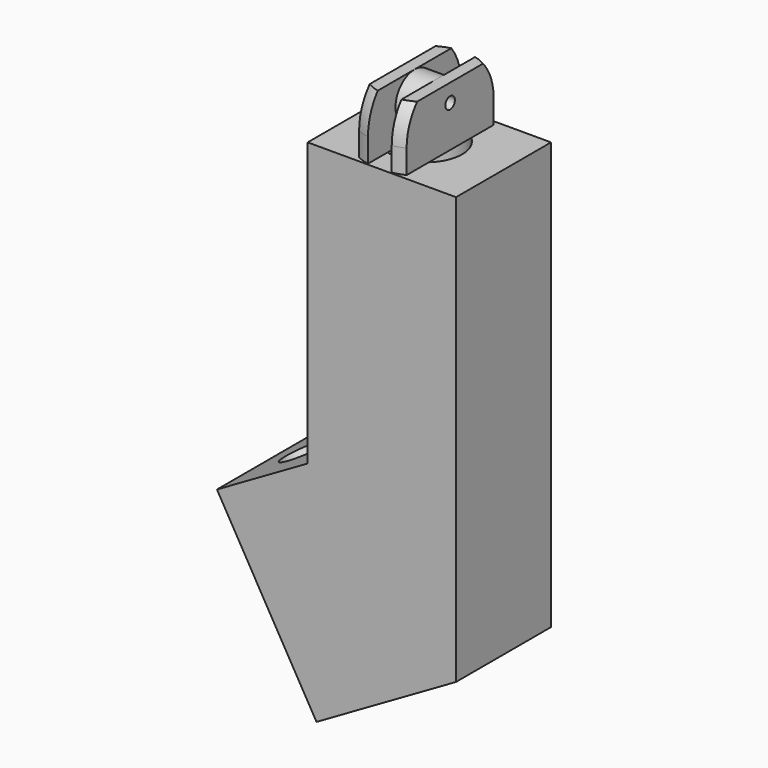
from build123d import *

# Parameters (mm, degrees)
BOX139_W                    = 15
BOX139_H                    = 21
BOX139_DEPTH                = 23
BOX139_PLACEMENT_ANGLE      = 60
CYLINDER260_R               = 2
CYLINDER260_DEPTH           = 46
CYLINDER260_PLACEMENT_ANGLE = 330
CYLINDER227_R               = 2
CYLINDER227_DEPTH           = 10
CYLINDER227_PLACEMENT_ANGLE = 45
CYLINDER224_R               = 3
CYLINDER224_DEPTH           = 37
CYLINDER222_R               = 0.5
CYLINDER222_DEPTH           = 10
CYLINDER219_R               = 2
CYLINDER219_DEPTH           = 4
CYLINDER223_R               = 3
CYLINDER223_DEPTH           = 10
BOX110_W                    = 10
BOX110_H                    = 10
BOX110_DEPTH                = 10
BOX108_W                    = 2
BOX108_H                    = 10
BOX108_DEPTH                = 10
BOX109_W                    = 10
BOX109_H                    = 10
BOX109_DEPTH                = 10
CYLINDER221_R               = 5
CYLINDER221_DEPTH           = 10
CYLINDER220_R               = 5
CYLINDER220_DEPTH           = 10
BOX101_W                    = 10
BOX101_H                    = 10
BOX101_DEPTH                = 20
BOX101_PLACEMENT_ANGLE      = 330
BOX100_W                    = 12
BOX100_H                    = 10
BOX100_DEPTH                = 17
BOX100_PLACEMENT_ANGLE      = 30
BOX098_W                    = 12.5
BOX098_H                    = 10
BOX098_DEPTH                = 43


with BuildPart() as cube139:
    # Box139 → Box139 (new body)
    with BuildSketch(Plane.XY):
        with Locations((7.5, 10.5)):
            Rectangle(BOX139_W, BOX139_H)
    extrude(amount=BOX139_DEPTH)


with BuildPart() as cube139_1:
    # Box139 placement: moved
    add(cube139.part.moved(Location((-59.2, -11, -91.360962))).rotate(Axis((-59.2, -11, -91.360962), (0, 1, 0)), BOX139_PLACEMENT_ANGLE))


with BuildPart() as cylinder260:
    # Cylinder260 → Cylinder260 (new body)
    with BuildSketch(Plane.XY):
        Circle(CYLINDER260_R)
    extrude(amount=CYLINDER260_DEPTH)


with BuildPart() as cylinder260_1:
    # Cylinder260 placement: moved
    add(cylinder260.part.moved(Location((-50.83, 0, -93.18))).rotate(Axis((-50.83, 0, -93.18), (0, 1, 0)), CYLINDER260_PLACEMENT_ANGLE))


with BuildPart() as cylinder227:
    # Cylinder227 → Cylinder227 (new body)
    with BuildSketch(Plane.XY):
        Circle(CYLINDER227_R)
    extrude(amount=CYLINDER227_DEPTH)


with BuildPart() as cylinder227_1:
    # Cylinder227 placement: moved
    add(cylinder227.part.moved(Location((-62.041631, 0, -84.020815))).rotate(Axis((-62.041631, 0, -84.020815), (0, 1, 0)), CYLINDER227_PLACEMENT_ANGLE))


with BuildPart() as cylinder224:
    # Cylinder224 → Cylinder224 (new body)
    with BuildSketch(Plane(origin=(-52, 0, -84.5), x_dir=(1, 0, 0), z_dir=(0, 0, 1))):
        Circle(CYLINDER224_R)
    extrude(amount=CYLINDER224_DEPTH)


with BuildPart() as cylinder222:
    # Cylinder222 → Cylinder222 (new body)
    with BuildSketch(Plane(origin=(-5, 0, -7), x_dir=(0, 0, -1), z_dir=(1, 0, 0))):
        Circle(CYLINDER222_R)
    extrude(amount=CYLINDER222_DEPTH)


with BuildPart() as cylinder219:
    # Cylinder219 → Cylinder219 (new body)
    with BuildSketch(Plane(origin=(-2, -50, 1), x_dir=(0, 0, -1), z_dir=(1, 0, 0))):
        Circle(CYLINDER219_R)
    extrude(amount=CYLINDER219_DEPTH)


with BuildPart() as cylinder223:
    # Cylinder223 → Cylinder223 (new body)
    with BuildSketch(Plane(origin=(0, -50, -12), x_dir=(1, 0, 0), z_dir=(0, 0, 1))):
        Circle(CYLINDER223_R)
    extrude(amount=CYLINDER223_DEPTH)


with BuildPart() as cube110:
    # Box110 → Box110 (new body)
    with BuildSketch(Plane(origin=(-12, -55, -2), x_dir=(1, 0, 0), z_dir=(0, 0, 1))):
        with Locations((5, 5)):
            Rectangle(BOX110_W, BOX110_H)
    extrude(amount=BOX110_DEPTH)


with BuildPart() as cube108:
    # Box108 → Box108 (new body)
    with BuildSketch(Plane(origin=(-1, -55, -2), x_dir=(1, 0, 0), z_dir=(0, 0, 1))):
        with Locations((1, 5)):
            Rectangle(BOX108_W, BOX108_H)
    extrude(amount=BOX108_DEPTH)


with BuildPart() as cube109:
    # Box109 → Box109 (new body)
    with BuildSketch(Plane(origin=(2, -55, -2), x_dir=(1, 0, 0), z_dir=(0, 0, 1))):
        with Locations((5, 5)):
            Rectangle(BOX109_W, BOX109_H)
    extrude(amount=BOX109_DEPTH)


with BuildPart() as cylinder221:
    # Cylinder221 → Cylinder221 (new body)
    with BuildSketch(Plane(origin=(0, -50, -10), x_dir=(1, 0, 0), z_dir=(0, 0, 1))):
        Circle(CYLINDER221_R)
    extrude(amount=CYLINDER221_DEPTH)


with BuildPart() as sphere045:
    # Sphere045 → Sphere045 (revolve)
    with BuildSketch(Plane.XZ.offset(50)):
        with BuildLine():
            ThreePointArc((5, 0), (3.535534, 3.535534), (0, 5))
            Line((0, 5), (0, 0))
            Line((0, 0), (5, 0))
        make_face()
    revolve(axis=Axis((0, -50, 0), (0, 0, 1)))


with BuildPart() as cut204006013:
    # Cylinder220 → Cylinder220 (new body)
    with BuildSketch(Plane(origin=(0, -50, -7), x_dir=(1, 0, 0), z_dir=(0, 0, 1))):
        Circle(CYLINDER220_R)
    extrude(amount=CYLINDER220_DEPTH)

    # Common038: intersect Sphere045
    add(sphere045.part, mode=Mode.INTERSECT)

    # Fusion005077020006: union Cylinder221
    add(cylinder221.part)

    # Cut204006012: cut Cube109
    add(cube109.part, mode=Mode.SUBTRACT)

    # Cut204006014: cut Cube108
    add(cube108.part, mode=Mode.SUBTRACT)

    # Cut204006015: cut Cube110
    add(cube110.part, mode=Mode.SUBTRACT)

    # Cut204006011: cut Cylinder223
    add(cylinder223.part, mode=Mode.SUBTRACT)

    # Fusion005077020005: union Cylinder219
    add(cylinder219.part)


with BuildPart() as cut204006013_1:
    # Fusion005077020007 placement: moved
    add(cut204006013.part.moved(Location((0, 50, -8.5))))

    # Cut204006013: cut Cylinder222
    add(cylinder222.part, mode=Mode.SUBTRACT)


with BuildPart() as cut204006013_2:
    # Cut204006013 placement: moved
    add(cut204006013_1.part.moved(Location((-52, 0, -37))))


with BuildPart() as cube101:
    # Box101 → Box101 (new body)
    with BuildSketch(Plane.XY):
        with Locations((5, 5)):
            Rectangle(BOX101_W, BOX101_H)
    extrude(amount=BOX101_DEPTH)


with BuildPart() as cube101_1:
    # Box101 placement: moved
    add(cube101.part.moved(Location((-168.49167, -5, -108.102886))).rotate(Axis((-168.49167, -5, -108.102886), (0, 1, 0)), BOX101_PLACEMENT_ANGLE))


with BuildPart() as cube100:
    # Box100 → Box100 (new body)
    with BuildSketch(Plane.XY):
        with Locations((6, 5)):
            Rectangle(BOX100_W, BOX100_H)
    extrude(amount=BOX100_DEPTH)


with BuildPart() as cube100_1:
    # Box100 placement: moved
    add(cube100.part.moved(Location((-167.14, -5, -90.45))).rotate(Axis((-167.14, -5, -90.45), (0, -1, 0)), BOX100_PLACEMENT_ANGLE))


with BuildPart() as cut204006069001:
    # Box098 → Box098 (new body)
    with BuildSketch(Plane(origin=(-168, -5, -90.5), x_dir=(1, 0, 0), z_dir=(0, 0, 1))):
        with Locations((6.25, 5)):
            Rectangle(BOX098_W, BOX098_H)
    extrude(amount=BOX098_DEPTH)

    # Fusion005077020: union Cube100
    add(cube100_1.part)

    # Cut204006: cut Cube101
    add(cube101_1.part, mode=Mode.SUBTRACT)


with BuildPart() as cut204006069001_1:
    # Cut204006001 placement: moved
    add(cut204006069001.part.moved(Location((110, 0, 0))))

    # Fusion005077020009: union Cut204006013
    add(cut204006013_2.part)

    # Cut204006018: cut Cylinder224
    add(cylinder224.part, mode=Mode.SUBTRACT)

    # Cut204006019: cut Cylinder227
    add(cylinder227_1.part, mode=Mode.SUBTRACT)

    # Cut204006067: cut Cylinder260
    add(cylinder260_1.part, mode=Mode.SUBTRACT)

    # Cut204006069: cut Cube139
    add(cube139_1.part, mode=Mode.SUBTRACT)


solid = cut204006069001_1.part
